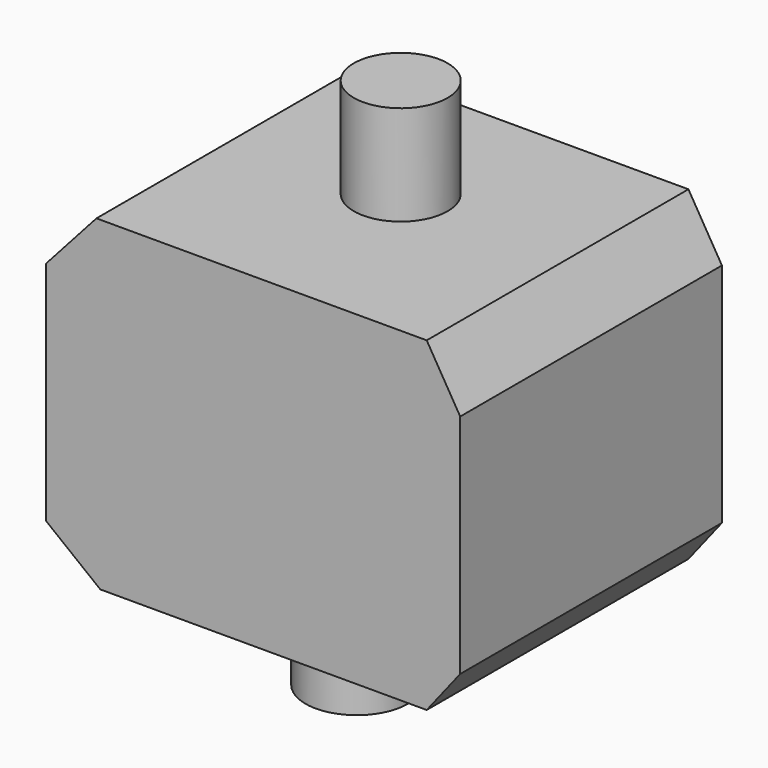
from build123d import *

# Parameters (mm, degrees)
F1_DEPTH = 101.6
F2_R     = 14.570657
F3_DEPTH = 30.988
F4_R     = 15.889172
F5_DEPTH = 30.988


with BuildPart() as f1:
    # F0 (on Front) → F1 (new body)
    with BuildSketch(Plane.XZ):
        Polygon((58.653947, 47.223948), (-43.915264, 47.223948), (-59.556317, 29.778158), (-59.556317, -40.606577), (-42.712107, -53.841315), (58.653947, -53.841315), (69.052672, -40.606577), (69.052672, 29.778158), align=None)
    extrude(amount=F1_DEPTH)

    # F2 (on face) → F3 (join)
    with BuildSketch(Plane.XY.offset(47.223948)):
        with Locations((5.683666, -45.478929)):
            Circle(F2_R)
    extrude(amount=F3_DEPTH)

    # F4 (on face) → F5 (join)
    with BuildSketch(Plane(origin=(0, 0, -53.841315), x_dir=(1, 0, 0), z_dir=(0, 0, -1))):
        with Locations((0, 55.446912)):
            Circle(F4_R)
    extrude(amount=F5_DEPTH)


solid = f1.part
